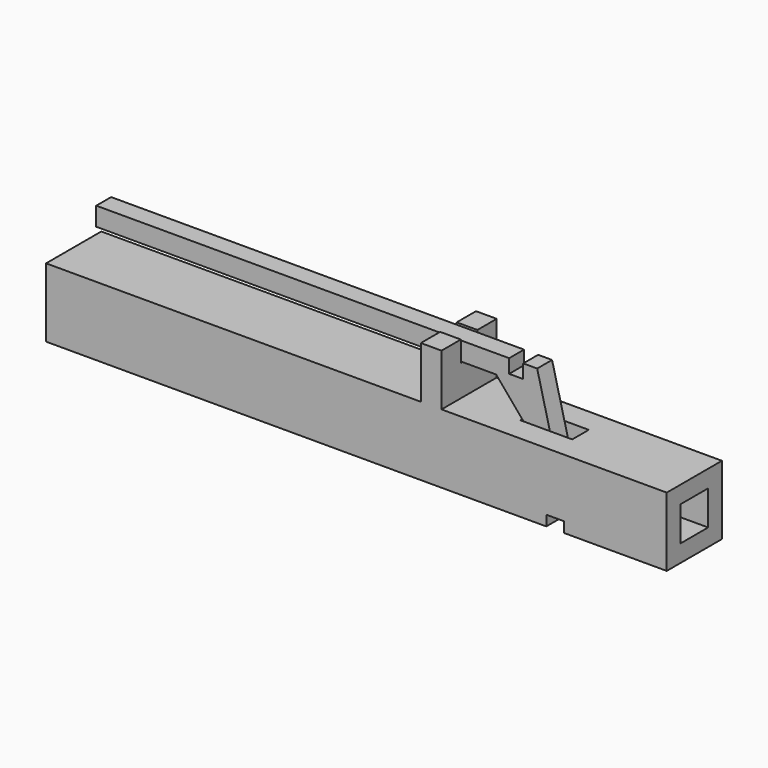
from build123d import *

# Parameters (mm, degrees)
F0_W      = 90
F0_H      = 10
F1_DEPTH  = 10
F2_T      = -2.5
F3_W      = 7.5
F3_H      = 3
F4_DEPTH  = 2.5
F5_W      = 3
F5_H      = 10
F6_DEPTH  = 7.5
F7_W      = 3
F7_H      = 3
F8_DEPTH  = 3
F9_W      = 3
F9_H      = 2.6932093799
F9_W_2    = 50.1080509275
F10_DEPTH = 2.7
F11_W     = 1.6326196492
F11_H     = 2.7
F12_DEPTH = 2
F13_W     = 2.0434856415
F13_H     = 2.7
F14_DEPTH = 2
F15_W     = 2.5415048003
F15_H     = 10
F16_DEPTH = 1.5


with BuildPart() as f1:
    # F0 (on Top) → F1 (new body)
    with BuildSketch(Plane.XY):
        with Locations((14.7734600306, -2.3407222517)):
            Rectangle(F0_W, F0_H)
    extrude(amount=F1_DEPTH)

    # F2
    f2_openings = [f1.faces().sort_by_distance(p)[0] for p in [
        (59.77346, -2.340722, 5),
        (-30.22654, -2.340722, 5),
    ]]
    offset(amount=F2_T, openings=f2_openings)

    # F3 (on face) → F4 (cut, through all)
    with BuildSketch(Plane.XY.offset(10)):
        with Locations((39.5166127384, -2.3407222517)):
            Rectangle(F3_W, F3_H)
    extrude(amount=-F4_DEPTH, mode=Mode.SUBTRACT)

    # F5 (on face) → F6 (join)
    with BuildSketch(Plane.XY.offset(10)):
        with Locations((25.6160299629, -2.3407222517)):
            Rectangle(F5_W, F5_H)
    extrude(amount=F6_DEPTH)

    # F7 (on face) → F8 (cut)
    with BuildSketch(Plane.XY.offset(17.5)):
        with Locations((25.6160299629, -2.3407222517)):
            Rectangle(F7_W, F7_H)
    extrude(amount=-F8_DEPTH, mode=Mode.SUBTRACT)

    # F9 (on face) → F10 (join)
    with BuildSketch(Plane.XZ.offset(0.8407222517)):
        Polygon((27.1160299629, 14.5), (31.9977998734, 14.5), (39.3753573298, 5.7678297162), (40.6771413982, 6.2636667863), (37.9447564483, 17.1932093799), (27.1160299629, 17.1932093799), align=None)
        with Locations((25.6160299629, 15.84660469)):
            Rectangle(F9_W, F9_H)
        with Locations((-0.9379955009, 15.84660469)):
            Rectangle(F9_W_2, F9_H)
    extrude(amount=F10_DEPTH)

    # F11 (on face) → F12 (join)
    with BuildSketch(Plane(origin=(0, 0, 14.5), x_dir=(1, 0, 0), z_dir=(0, 0, -1))):
        with Locations((23.2997201383, 2.1907222517)):
            Rectangle(F11_W, F11_H)
    extrude(amount=F12_DEPTH)

    # F13 (on face) → F14 (cut)
    with BuildSketch(Plane.XY.offset(17.1932093799)):
        with Locations((34.9011048675, -2.1907222517)):
            Rectangle(F13_W, F13_H)
    extrude(amount=-F14_DEPTH, mode=Mode.SUBTRACT)

    # F15 (on face) → F16 (cut)
    with BuildSketch(Plane(origin=(0, 0, 0), x_dir=(1, 0, 0), z_dir=(0, 0, -1))):
        with Locations((43.5744747519, 2.3407222517)):
            Rectangle(F15_W, F15_H)
    extrude(amount=-F16_DEPTH, mode=Mode.SUBTRACT)


solid = f1.part
